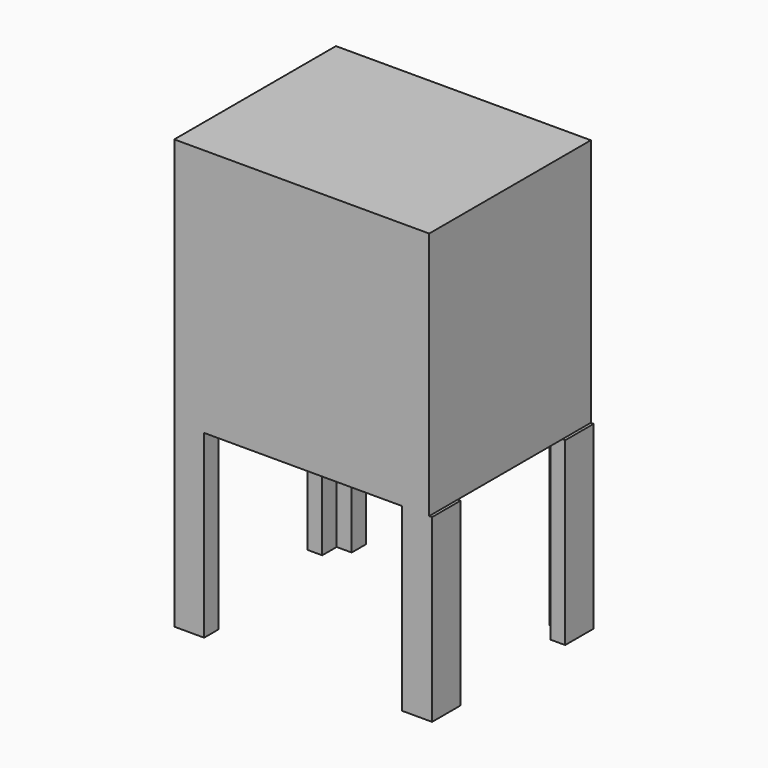
from build123d import *

# Parameters (mm, degrees)
F0_W     = 410
F0_H     = 325
F1_DEPTH = 400
F2_W     = 4.647084
F2_H     = 57.370994
F3_DEPTH = 290


with BuildPart() as f1:
    # F0 (on Top) → F1 (new body)
    with BuildSketch(Plane.XY):
        with Locations((-2.323542, 45.894599)):
            Rectangle(F0_W, F0_H)
    extrude(amount=F1_DEPTH)

    # F2 (on face) → F3 (join)
    with BuildSketch(Plane(origin=(0, 0, 0), x_dir=(1, 0, 0), z_dir=(0, 0, -1))):
        Polygon((-183.458284, -151.023605), (-207.323542, -151.023605), (-207.323542, -208.394599), (-159.285679, -208.394599), (-159.285679, -180.004483), (-183.458284, -180.004483), align=None)
        with Locations((205, 87.919904)):
            Rectangle(F2_W, F2_H)
        with Locations((205, -179.709102)):
            Rectangle(F2_W, F2_H)
        Polygon((202.676458, 116.605401), (159.285679, 116.605401), (159.285679, 88.215284), (183.458284, 88.215284), (183.458284, 59.234407), (202.676458, 59.234407), align=None)
        Polygon((159.285679, -180.004483), (159.285679, -208.394599), (202.676458, -208.394599), (202.676458, -151.023605), (183.458284, -151.023605), (183.458284, -180.004483), align=None)
        Polygon((-159.285679, 116.605401), (-207.323542, 116.605401), (-207.323542, 59.234407), (-183.458284, 59.234407), (-183.458284, 88.215284), (-159.285679, 88.215284), align=None)
    extrude(amount=F3_DEPTH)


solid = f1.part
